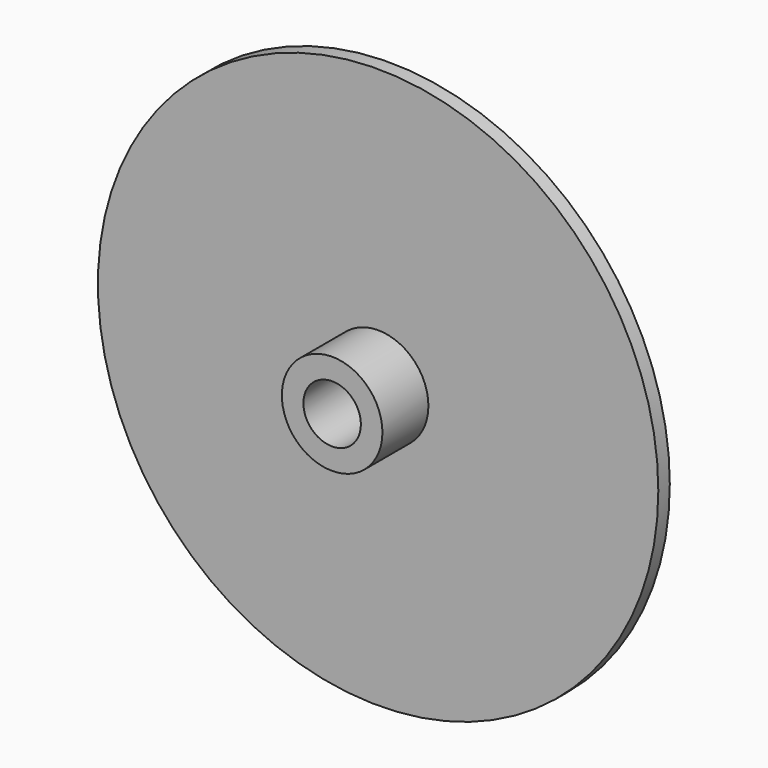
from build123d import *

# Parameters (mm, degrees)
F0_R     = 123.825
F1_DEPTH = 3.175
F2_R     = 22.225
F3_DEPTH = 25.4
F4_R     = 12.7
F5_DEPTH = 50.8


with BuildPart() as f1:
    # F0 (on Front) → F1 (new body, symmetric)
    with BuildSketch(Plane.XZ):
        Circle(F0_R)
    extrude(amount=F1_DEPTH, both=True)

    # F2 (on face) → F3 (join)
    with BuildSketch(Plane.XZ.offset(3.175)):
        Circle(F2_R)
    extrude(amount=F3_DEPTH)

    # F4 (on face) → F5 (cut, symmetric)
    with BuildSketch(Plane.XZ.offset(28.575)):
        Circle(F4_R)
    extrude(amount=F5_DEPTH, both=True, mode=Mode.SUBTRACT)


solid = f1.part
